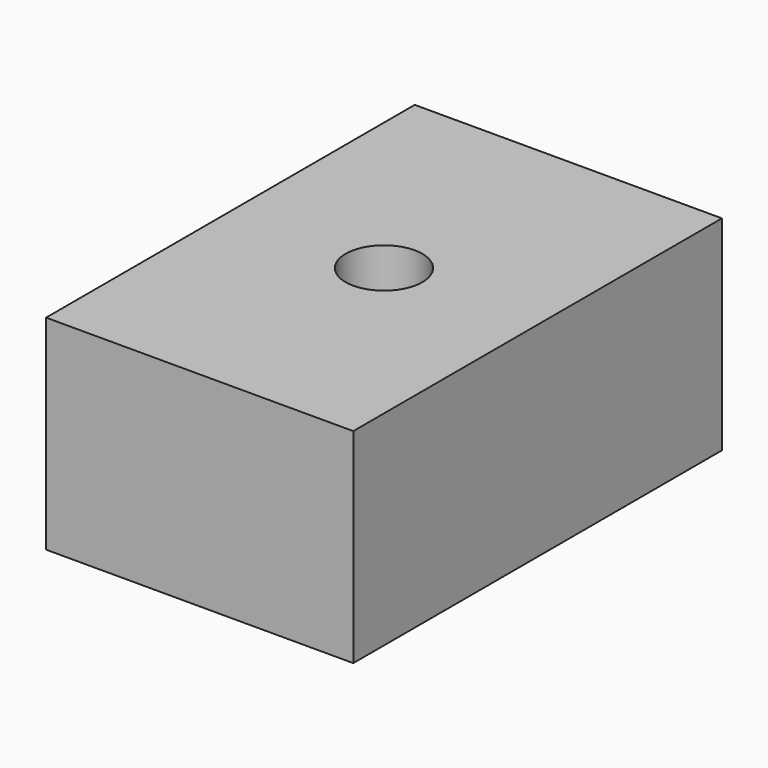
from build123d import *

# Parameters (mm, degrees)
F0_W     = 50.8
F0_H     = 76.2
F1_DEPTH = 33.782
F2_R     = 6.35
F3_DEPTH = 16.002
F4_T     = -2.54


with BuildPart() as f1:
    # F0 (on Top) → F1 (new body)
    with BuildSketch(Plane.XY):
        with Locations((25.4, 38.1)):
            Rectangle(F0_W, F0_H)
    extrude(amount=F1_DEPTH)

    # F2 (on face) → F3 (cut)
    with BuildSketch(Plane.XY.offset(33.782)):
        with Locations((25.4, 38.1)):
            Circle(F2_R)
    extrude(amount=-F3_DEPTH, mode=Mode.SUBTRACT)

    # F4
    f4_openings = [f1.faces().sort_by_distance(p)[0] for p in [
        (0, 38.1, 16.891),
    ]]
    offset(amount=F4_T, openings=f4_openings, kind=Kind.INTERSECTION)


solid = f1.part
